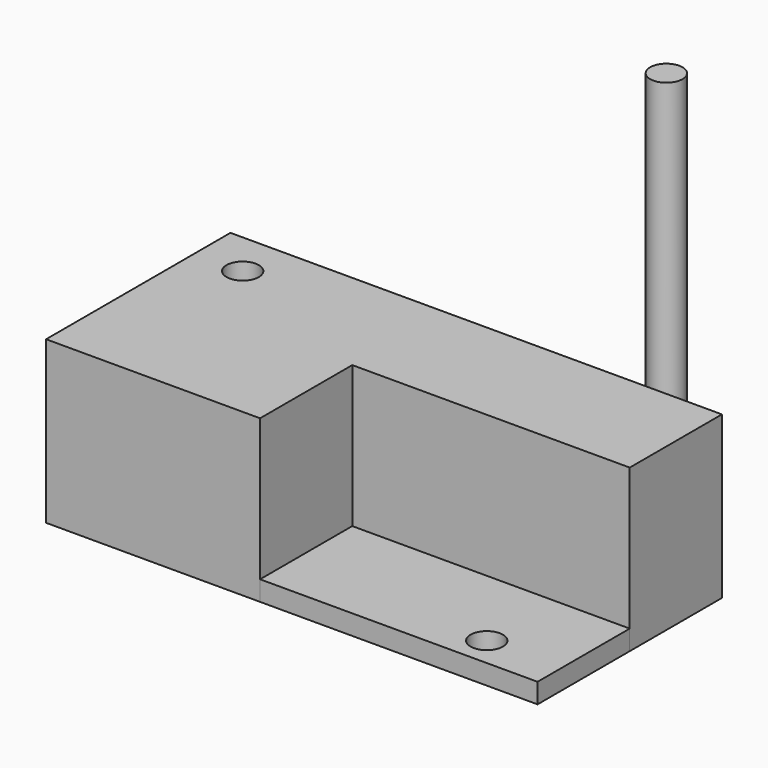
from build123d import *

# Parameters (mm, degrees)
F1_DEPTH = 25.4
F0_W     = 43.606944
F0_H     = 18.107958
F2_DEPTH = 3.12498
F5_R     = 2.539963
F6_DEPTH = 54.698341
F4_R     = 2.539963
F7_DEPTH = 47.644243
F3_R     = 2.539963
F8_DEPTH = 52.474499


with BuildPart() as f1:
    # F0 (on Top) → F1 (new body)
    with BuildSketch(Plane.XY):
        Polygon((-77.236027, 0), (-43.606944, 0), (-43.606944, 18.107958), (0, 18.107958), (0, 36.215916), (-77.236027, 36.215916), align=None)
    extrude(amount=F1_DEPTH)

    # F3 (on face) → F8 (cut)
    with BuildSketch(Plane.XY.offset(25.4)):
        with Locations((-69.713354, 29.213805)):
            Circle(F3_R)
    extrude(amount=-F8_DEPTH, mode=Mode.SUBTRACT)


with BuildPart() as f2:
    # F0 (on Top) → F2 (new body)
    with BuildSketch(Plane.XY):
        with Locations((-21.803472, 9.053979)):
            Rectangle(F0_W, F0_H)
    extrude(amount=F2_DEPTH)

    # F4 (on face) → F7 (cut)
    with BuildSketch(Plane.XY.offset(25.4)):
        with Locations((-11.699114, 4.645208)):
            Circle(F4_R)
    extrude(amount=-F7_DEPTH, mode=Mode.SUBTRACT)


with BuildPart() as f6:
    # F5 (on Top) → F6 (new body)
    with BuildSketch(Plane.XY):
        with Locations((-26.811084, 58.814038)):
            Circle(F5_R)
    extrude(amount=F6_DEPTH)


solid = Compound([f1.part, f2.part, f6.part])
